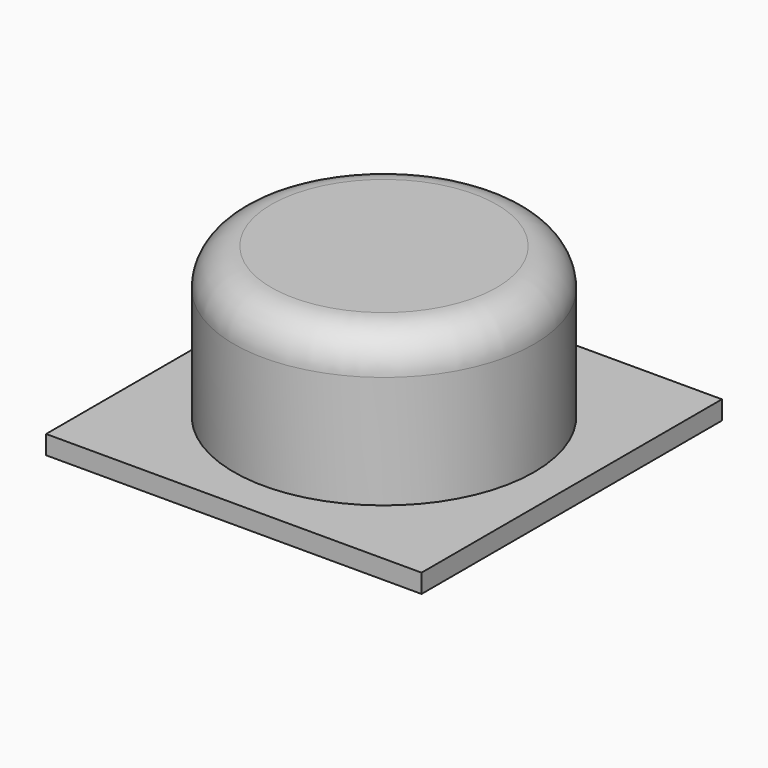
from build123d import *

# Parameters (mm, degrees)
F0_W     = 63.5
F0_H     = 63.5
F1_DEPTH = 3.175
F2_R     = 25.4
F3_DEPTH = 25.4
F4_R     = 6.35


with BuildPart() as f1:
    # F0 (on Top) → F1 (new body)
    with BuildSketch(Plane.XY):
        Rectangle(F0_W, F0_H)
    extrude(amount=F1_DEPTH)

    # F2 (on face) → F3 (join)
    with BuildSketch(Plane.XY.offset(3.175)):
        Circle(F2_R)
    extrude(amount=F3_DEPTH)

    # F4
    f4_edges = [f1.edges().sort_by_distance(p)[0] for p in [
        (-25.4, 0, 28.575),
    ]]
    fillet(f4_edges, radius=F4_R)


solid = f1.part
